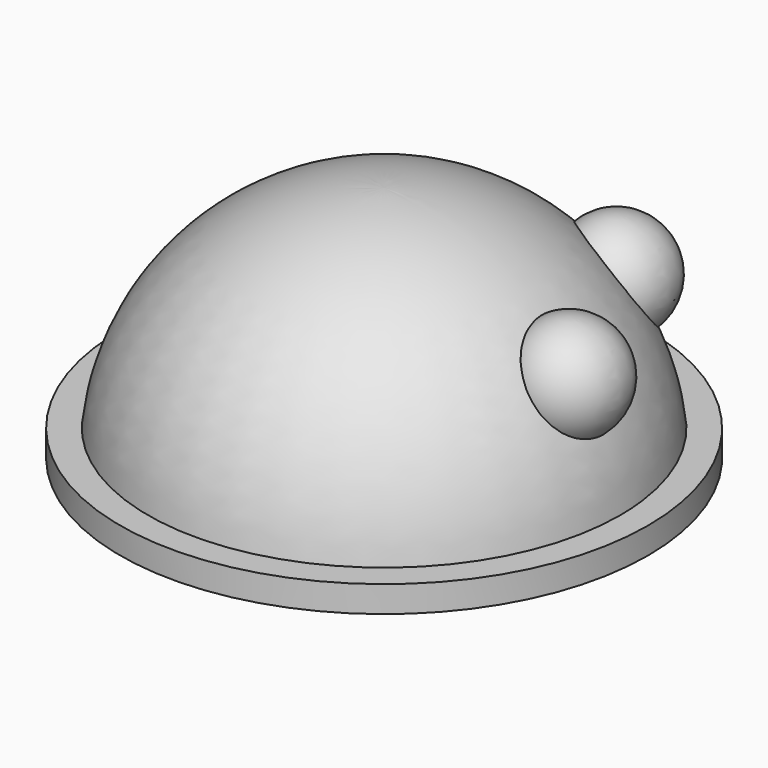
from build123d import *

# Parameters (mm, degrees)
CYLINDER_R     = 10
CYLINDER_DEPTH = 1


with BuildPart() as cylinder:
    # Cylinder → Cylinder (new body)
    with BuildSketch(Plane.XY):
        Circle(CYLINDER_R)
    extrude(amount=CYLINDER_DEPTH)


with BuildPart() as fusion:
    # Sphere → Sphere (revolve)
    with BuildSketch(Plane.XZ):
        with BuildLine():
            ThreePointArc((9, 0), (6.363961, 6.363961), (0, 9))
            Line((0, 9), (0, 0))
            Line((0, 0), (9, 0))
        make_face()
    revolve(axis=Axis((0, 0, 0), (0, 0, 1)))

    # Fusion: union Cylinder
    add(cylinder.part)


with BuildPart() as sphere001:
    # Sphere001 → Sphere001 (revolve)
    with BuildSketch(Plane(origin=(7, 0, 5), x_dir=(1, 0, 0), z_dir=(0, -1, 0))):
        with BuildLine():
            ThreePointArc((0, -2), (2, 0), (0, 2))
            Line((0, 2), (0, -2))
        make_face()
    revolve(axis=Axis((7, 0, 5), (0, 0, 1)))


with BuildPart() as sphere002:
    # Sphere002 → Sphere002 (revolve)
    with BuildSketch(Plane(origin=(4, 6, 5), x_dir=(1, 0, 0), z_dir=(0, -1, 0))):
        with BuildLine():
            ThreePointArc((0, -2), (2, 0), (0, 2))
            Line((0, 2), (0, -2))
        make_face()
    revolve(axis=Axis((4, 6, 5), (0, 0, 1)))


solid = Compound([fusion.part, sphere001.part, sphere002.part])
